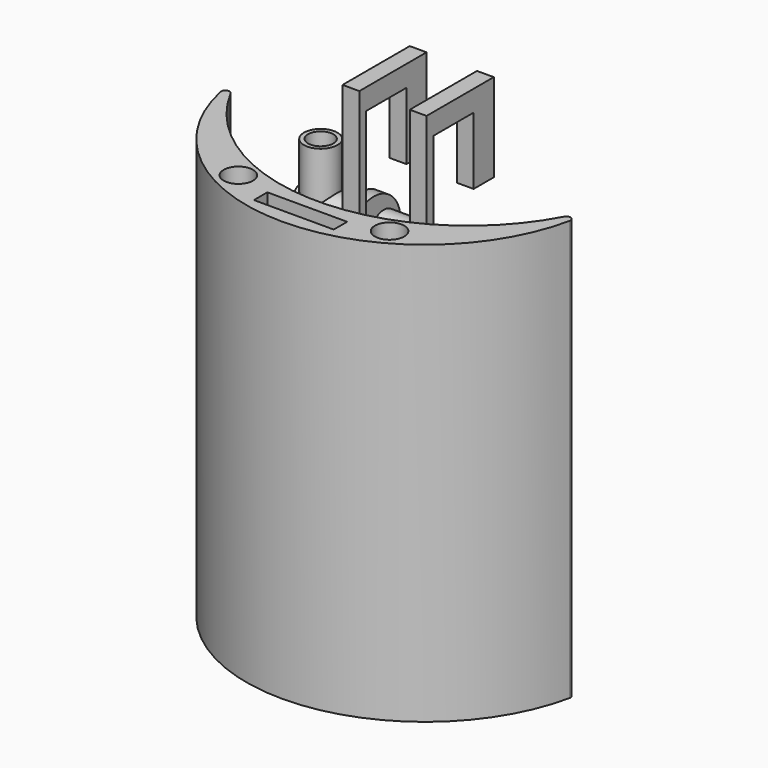
from build123d import *

# Parameters (mm, degrees)
BOX017_W                    = 30
BOX017_H                    = 5
BOX017_DEPTH                = 16
CYLINDER046_R               = 13
CYLINDER046_DEPTH           = 9
CYLINDER045_R               = 11
CYLINDER045_DEPTH           = 15
BOX016_W                    = 40
BOX016_H                    = 20
BOX016_DEPTH                = 14
BOX013_W                    = 4
BOX013_H                    = 20
BOX013_DEPTH                = 5
BOX012_W                    = 4
BOX012_H                    = 20
BOX012_DEPTH                = 5
BOX011_W                    = 4
BOX011_H                    = 6
BOX011_DEPTH                = 21
BOX014_W                    = 4
BOX014_H                    = 2
BOX014_DEPTH                = 43
CYLINDER044_R               = 3
CYLINDER044_DEPTH           = 10
CYLINDER043_R               = 3
CYLINDER043_DEPTH           = 26
CYLINDER042_R               = 3
CYLINDER042_DEPTH           = 16
CYLINDER041_R               = 4
CYLINDER041_DEPTH           = 14
CYLINDER038_R               = 3
CYLINDER038_DEPTH           = 18
CYLINDER037_R               = 4
CYLINDER037_DEPTH           = 18
CYLINDER036_R               = 4
CYLINDER036_DEPTH           = 10
BOX009_W                    = 34
BOX009_H                    = 5
BOX009_DEPTH                = 10
CYLINDER035_R               = 2.5
CYLINDER035_DEPTH           = 38
CYLINDER034_R               = 4
CYLINDER034_DEPTH           = 38
CYLINDER033_R               = 2.5
CYLINDER033_DEPTH           = 52
CYLINDER030_R               = 2.5
CYLINDER030_DEPTH           = 52
CYLINDER027_R               = 8
CYLINDER027_DEPTH           = 34
CYLINDER029_R               = 8
CYLINDER029_DEPTH           = 40
CYLINDER022_R               = 7
CYLINDER022_DEPTH           = 34
CYLINDER025_R               = 2
CYLINDER025_DEPTH           = 48
CYLINDER024_R               = 6
CYLINDER024_DEPTH           = 40
BOX007_W                    = 3
BOX007_H                    = 5
BOX007_DEPTH                = 14
BOX008_W                    = 3
BOX008_H                    = 5
BOX008_DEPTH                = 14
BOX005_W                    = 5
BOX005_H                    = 14
BOX005_DEPTH                = 51
BOX004_W                    = 18
BOX004_H                    = 8
BOX004_DEPTH                = 30
CYLINDER020_R               = 3.5
CYLINDER020_DEPTH           = 24
CYLINDER020_ROLL_ANGLE      = 45
CYLINDER020_PITCH_ANGLE     = 45
CYLINDER020_PLACEMENT_ANGLE = 90
BOX003_W                    = 41
BOX003_H                    = 10
BOX003_DEPTH                = 45
CYLINDER015_R               = 3.5
CYLINDER015_DEPTH           = 25
CYLINDER014_R               = 3.5
CYLINDER014_DEPTH           = 25
BOX002_W                    = 19
BOX002_H                    = 4
BOX002_DEPTH                = 100
CYLINDER004_R               = 45
CYLINDER004_DEPTH           = 100
CYLINDER005_R               = 42.5
CYLINDER005_DEPTH           = 100
FILLET005_R                 = 1
FILLET004_R                 = 1
BOX015_W                    = 4
BOX015_H                    = 6
BOX015_DEPTH                = 21
BOX010_W                    = 4
BOX010_H                    = 2
BOX010_DEPTH                = 43


with BuildPart() as cube017:
    # Box017 → Box017 (new body)
    with BuildSketch(Plane(origin=(-15, -2, -175), x_dir=(1, 0, 0), z_dir=(0, 0, 1))):
        with Locations((15, 2.5)):
            Rectangle(BOX017_W, BOX017_H)
    extrude(amount=BOX017_DEPTH)


with BuildPart() as cylindre042:
    # Cylinder046 → Cylinder046 (new body)
    with BuildSketch(Plane(origin=(0, 18, -171), x_dir=(1, 0, 0), z_dir=(0, 0, 1))):
        Circle(CYLINDER046_R)
    extrude(amount=CYLINDER046_DEPTH)


with BuildPart() as cylindre041:
    # Cylinder045 → Cylinder045 (new body)
    with BuildSketch(Plane(origin=(0, 18, -174), x_dir=(1, 0, 0), z_dir=(0, 0, 1))):
        Circle(CYLINDER045_R)
    extrude(amount=CYLINDER045_DEPTH)


with BuildPart() as cut033:
    # Box016 → Box016 (new body)
    with BuildSketch(Plane(origin=(-20, -2, -174), x_dir=(1, 0, 0), z_dir=(0, 0, 1))):
        with Locations((20, 10)):
            Rectangle(BOX016_W, BOX016_H)
    extrude(amount=BOX016_DEPTH)

    # Cut031: cut Cylindre041
    add(cylindre041.part, mode=Mode.SUBTRACT)

    # Cut032: cut Cylindre042
    add(cylindre042.part, mode=Mode.SUBTRACT)

    # Cut033: cut Cube017
    add(cube017.part, mode=Mode.SUBTRACT)


with BuildPart() as cube013:
    # Box013 → Box013 (new body)
    with BuildSketch(Plane(origin=(6, -12, -92), x_dir=(1, 0, 0), z_dir=(0, 0, 1))):
        with Locations((2, 10)):
            Rectangle(BOX013_W, BOX013_H)
    extrude(amount=BOX013_DEPTH)


with BuildPart() as cube012:
    # Box012 → Box012 (new body)
    with BuildSketch(Plane(origin=(-10, -12, -92), x_dir=(1, 0, 0), z_dir=(0, 0, 1))):
        with Locations((2, 10)):
            Rectangle(BOX012_W, BOX012_H)
    extrude(amount=BOX012_DEPTH)


with BuildPart() as fusion015:
    # Box011 → Box011 (new body)
    with BuildSketch(Plane(origin=(-10, 2, -108), x_dir=(1, 0, 0), z_dir=(0, 0, 1))):
        with Locations((2, 3)):
            Rectangle(BOX011_W, BOX011_H)
    extrude(amount=BOX011_DEPTH)

    # Fusion015: union Cube012
    add(cube012.part)


with BuildPart() as fusion016:
    # Box014 → Box014 (new body)
    with BuildSketch(Plane(origin=(-10, -12, -130), x_dir=(1, 0, 0), z_dir=(0, 0, 1))):
        with Locations((2, 1)):
            Rectangle(BOX014_W, BOX014_H)
    extrude(amount=BOX014_DEPTH)

    # Fusion016: union Fusion015
    add(fusion015.part)


with BuildPart() as cylindre040:
    # Cylinder044 → Cylinder044 (new body)
    with BuildSketch(Plane(origin=(-32, 9, -127), x_dir=(1, 0, 0), z_dir=(0, 0, 1))):
        Circle(CYLINDER044_R)
    extrude(amount=CYLINDER044_DEPTH)


with BuildPart() as cylindre039:
    # Cylinder043 → Cylinder043 (new body)
    with BuildSketch(Plane(origin=(-42, 9, -128), x_dir=(0, 0, -1), z_dir=(1, 0, 0))):
        Circle(CYLINDER043_R)
    extrude(amount=CYLINDER043_DEPTH)


with BuildPart() as cylindre038:
    # Cylinder042 → Cylinder042 (new body)
    with BuildSketch(Plane(origin=(-32, 9, -129), x_dir=(1, 0, 0), z_dir=(0, 0, 1))):
        Circle(CYLINDER042_R)
    extrude(amount=CYLINDER042_DEPTH)


with BuildPart() as cut029:
    # Cylinder041 → Cylinder041 (new body)
    with BuildSketch(Plane(origin=(-32, 9, -128), x_dir=(1, 0, 0), z_dir=(0, 0, 1))):
        Circle(CYLINDER041_R)
    extrude(amount=CYLINDER041_DEPTH)

    # Cut028: cut Cylindre038
    add(cylindre038.part, mode=Mode.SUBTRACT)

    # Cut029: cut Cylindre039
    add(cylindre039.part, mode=Mode.SUBTRACT)


with BuildPart() as cylindre034:
    # Cylinder038 → Cylinder038 (new body)
    with BuildSketch(Plane(origin=(-36, 9, -128), x_dir=(0, 0, -1), z_dir=(1, 0, 0))):
        Circle(CYLINDER038_R)
    extrude(amount=CYLINDER038_DEPTH)


with BuildPart() as fusion013:
    # Cylinder037 → Cylinder037 (new body)
    with BuildSketch(Plane(origin=(-36, 9, -128), x_dir=(0, 0, -1), z_dir=(1, 0, 0))):
        Circle(CYLINDER037_R)
    extrude(amount=CYLINDER037_DEPTH)

    # Cut026: cut Cylindre034
    add(cylindre034.part, mode=Mode.SUBTRACT)

    # Fusion013: union Cut029
    add(cut029.part)


with BuildPart() as cylindre032:
    # Cylinder036 → Cylinder036 (new body)
    with BuildSketch(Plane(origin=(0, 12, -133), x_dir=(1, 0, 0), z_dir=(0, 0, 1))):
        Circle(CYLINDER036_R)
    extrude(amount=CYLINDER036_DEPTH)


with BuildPart() as cube009:
    # Box009 → Box009 (new body)
    with BuildSketch(Plane(origin=(-17, 11, -133), x_dir=(1, 0, 0), z_dir=(0, 0, 1))):
        with Locations((17, 2.5)):
            Rectangle(BOX009_W, BOX009_H)
    extrude(amount=BOX009_DEPTH)


with BuildPart() as cylindre031:
    # Cylinder035 → Cylinder035 (new body)
    with BuildSketch(Plane(origin=(-20, 9, -128), x_dir=(0, 0, -1), z_dir=(1, 0, 0))):
        Circle(CYLINDER035_R)
    extrude(amount=CYLINDER035_DEPTH)


with BuildPart() as cut025:
    # Cylinder034 → Cylinder034 (new body)
    with BuildSketch(Plane(origin=(-20, 9, -128), x_dir=(0, 0, -1), z_dir=(1, 0, 0))):
        Circle(CYLINDER034_R)
    extrude(amount=CYLINDER034_DEPTH)

    # Cut023: cut Cylindre031
    add(cylindre031.part, mode=Mode.SUBTRACT)

    # Cut024: cut Cube009
    add(cube009.part, mode=Mode.SUBTRACT)

    # Cut025: cut Cylindre032
    add(cylindre032.part, mode=Mode.SUBTRACT)


with BuildPart() as cylindre029:
    # Cylinder033 → Cylinder033 (new body)
    with BuildSketch(Plane(origin=(-26, 9, -128), x_dir=(0, 0, -1), z_dir=(1, 0, 0))):
        Circle(CYLINDER033_R)
    extrude(amount=CYLINDER033_DEPTH)


with BuildPart() as cylindre026:
    # Cylinder030 → Cylinder030 (new body)
    with BuildSketch(Plane(origin=(-26, 9, -128), x_dir=(0, 0, -1), z_dir=(1, 0, 0))):
        Circle(CYLINDER030_R)
    extrude(amount=CYLINDER030_DEPTH)


with BuildPart() as cylindre023:
    # Cylinder027 → Cylinder027 (new body)
    with BuildSketch(Plane(origin=(-17, 6, -128), x_dir=(0, 0, -1), z_dir=(1, 0, 0))):
        Circle(CYLINDER027_R)
    extrude(amount=CYLINDER027_DEPTH)


with BuildPart() as fusion008:
    # Cylinder029 → Cylinder029 (new body)
    with BuildSketch(Plane(origin=(-20, 6, -128), x_dir=(0, 0, -1), z_dir=(1, 0, 0))):
        Circle(CYLINDER029_R)
    extrude(amount=CYLINDER029_DEPTH)

    # Cut020: cut Cylindre023
    add(cylindre023.part, mode=Mode.SUBTRACT)

    # Cut021: cut Cylindre026
    add(cylindre026.part, mode=Mode.SUBTRACT)

    # Cut022: cut Cylindre029
    add(cylindre029.part, mode=Mode.SUBTRACT)

    # Fusion008: union Cut025
    add(cut025.part)


with BuildPart() as cylindre018:
    # Cylinder022 → Cylinder022 (new body)
    with BuildSketch(Plane(origin=(-17, 6, -138), x_dir=(0, 0, -1), z_dir=(1, 0, 0))):
        Circle(CYLINDER022_R)
    extrude(amount=CYLINDER022_DEPTH)


with BuildPart() as cylindre021:
    # Cylinder025 → Cylinder025 (new body)
    with BuildSketch(Plane(origin=(-26, 6, -138), x_dir=(0, 0, -1), z_dir=(1, 0, 0))):
        Circle(CYLINDER025_R)
    extrude(amount=CYLINDER025_DEPTH)


with BuildPart() as fusion009:
    # Cylinder024 → Cylinder024 (new body)
    with BuildSketch(Plane(origin=(-20, 6, -138), x_dir=(0, 0, -1), z_dir=(1, 0, 0))):
        Circle(CYLINDER024_R)
    extrude(amount=CYLINDER024_DEPTH)

    # Cut017: cut Cylindre021
    add(cylindre021.part, mode=Mode.SUBTRACT)

    # Cut018: cut Cylindre018
    add(cylindre018.part, mode=Mode.SUBTRACT)


with BuildPart() as fusion009_1:
    # Cut018 placement: moved
    add(fusion009.part.moved(Location((0, -1, 0))))

    # Fusion009: union Fusion008
    add(fusion008.part)


with BuildPart() as fusion010:
    # Box007 → Box007 (new body)
    with BuildSketch(Plane(origin=(17, -2, -143), x_dir=(1, 0, 0), z_dir=(0, 0, 1))):
        with Locations((1.5, 2.5)):
            Rectangle(BOX007_W, BOX007_H)
    extrude(amount=BOX007_DEPTH)

    # Fusion010: union Fusion009
    add(fusion009_1.part)


with BuildPart() as fusion011:
    # Box008 → Box008 (new body)
    with BuildSketch(Plane(origin=(-20, -2, -143), x_dir=(1, 0, 0), z_dir=(0, 0, 1))):
        with Locations((1.5, 2.5)):
            Rectangle(BOX008_W, BOX008_H)
    extrude(amount=BOX008_DEPTH)

    # Fusion011: union Fusion010
    add(fusion010.part)


with BuildPart() as cube005:
    # Box005 → Box005 (new body)
    with BuildSketch(Plane(origin=(-2.5, -14, -174), x_dir=(1, 0, 0), z_dir=(0, 0, 1))):
        with Locations((2.5, 7)):
            Rectangle(BOX005_W, BOX005_H)
    extrude(amount=BOX005_DEPTH)


with BuildPart() as cube004:
    # Box004 → Box004 (new body)
    with BuildSketch(Plane(origin=(-9, -10, -158), x_dir=(1, 0, 0), z_dir=(0, 0, 1))):
        with Locations((9, 4)):
            Rectangle(BOX004_W, BOX004_H)
    extrude(amount=BOX004_DEPTH)


with BuildPart() as cylindre016:
    # Cylinder020 → Cylinder020 (new body)
    with BuildSketch(Plane.XY):
        Circle(CYLINDER020_R)
    extrude(amount=CYLINDER020_DEPTH)


with BuildPart() as cylindre016_1:
    # Cylinder020 roll: moved
    add(cylindre016.part.rotate(Axis((0, 0, 0), (1, 0, 0)), CYLINDER020_ROLL_ANGLE))


with BuildPart() as cylindre016_2:
    # Cylinder020 pitch: moved
    add(cylindre016_1.part.rotate(Axis((0, 0, 0), (0, 1, 0)), CYLINDER020_PITCH_ANGLE))


with BuildPart() as cylindre016_3:
    # Cylinder020 placement: moved
    add(cylindre016_2.part.moved(Location((-36, -18, -176))).rotate(Axis((-36, -18, -176), (0, 0, 1)), CYLINDER020_PLACEMENT_ANGLE))


with BuildPart() as fusion:
    # Box003 → Box003 (new body)
    with BuildSketch(Plane(origin=(-20.5, -12, -173), x_dir=(1, 0, 0), z_dir=(0, 0, 1))):
        with Locations((20.5, 5)):
            Rectangle(BOX003_W, BOX003_H)
    extrude(amount=BOX003_DEPTH)

    # Fusion: union Cylindre016
    add(cylindre016_3.part)


with BuildPart() as part_mirroring:
    # Part__Mirroring: instance of Cylindre016
    add(cylindre016_3.part.mirror(Plane(origin=(0, 0, 0), x_dir=(0, 1, 0), z_dir=(0, 0, 1))))


with BuildPart() as part_mirroring_1:
    # Part__Mirroring placement: moved
    add(part_mirroring.part.moved(Location((0, 0, -303))))


with BuildPart() as fusion001:
    # Fusion001 base: copy of Part__Mirroring
    add(part_mirroring_1.part)

    # Fusion001: union Fusion
    add(fusion.part)


with BuildPart() as fusion002:
    # Part__Mirroring002: instance of Part__Mirroring
    add(part_mirroring_1.part.mirror(Plane(origin=(0, 0, 0), x_dir=(0, -1, 0), z_dir=(1, 0, 0))))

    # Fusion002: union Fusion001
    add(fusion001.part)


with BuildPart() as fusion003:
    # Part__Mirroring001: instance of Cylindre016
    add(cylindre016_3.part.mirror(Plane(origin=(0, 0, 0), x_dir=(0, -1, 0), z_dir=(1, 0, 0))))

    # Fusion003: union Fusion002
    add(fusion002.part)


with BuildPart() as cylindre013:
    # Cylinder015 → Cylinder015 (new body)
    with BuildSketch(Plane(origin=(18, -33, -112.5), x_dir=(1, 0, 0), z_dir=(0, 0, 1))):
        Circle(CYLINDER015_R)
    extrude(amount=CYLINDER015_DEPTH)


with BuildPart() as cylindre012:
    # Cylinder014 → Cylinder014 (new body)
    with BuildSketch(Plane(origin=(-18, -33, -112.5), x_dir=(1, 0, 0), z_dir=(0, 0, 1))):
        Circle(CYLINDER014_R)
    extrude(amount=CYLINDER014_DEPTH)


with BuildPart() as cube002:
    # Box002 → Box002 (new body)
    with BuildSketch(Plane(origin=(-9.5, -39, 0), x_dir=(1, 0, 0), z_dir=(0, 0, 1))):
        with Locations((9.5, 2)):
            Rectangle(BOX002_W, BOX002_H)
    extrude(amount=BOX002_DEPTH)


with BuildPart() as cylindre004:
    # Cylinder004 → Cylinder004 (new body)
    with BuildSketch(Plane(origin=(0, 13, 0), x_dir=(1, 0, 0), z_dir=(0, 0, 1))):
        Circle(CYLINDER004_R)
    extrude(amount=CYLINDER004_DEPTH)


with BuildPart() as fusion017:
    # Cylinder005 → Cylinder005 (new body)
    with BuildSketch(Plane.XY):
        Circle(CYLINDER005_R)
    extrude(amount=CYLINDER005_DEPTH)

    # Cut005: cut Cylindre004
    add(cylindre004.part, mode=Mode.SUBTRACT)

    # Fillet005
    fillet005_edges = [fusion017.edges().sort_by_distance(p)[0] for p in [
        (-42.456904, -1.913462, 50),
    ]]
    fillet(fillet005_edges, radius=FILLET005_R)

    # Fillet004
    fillet004_edges = [fusion017.edges().sort_by_distance(p)[0] for p in [
        (42.456904, -1.913462, 50),
    ]]
    fillet(fillet004_edges, radius=FILLET004_R)

    # Cut004: cut Cube002
    add(cube002.part, mode=Mode.SUBTRACT)


with BuildPart() as fusion017_1:
    # Cut004 placement: moved
    add(fusion017.part.moved(Location((0, 0, -200))))

    # Cut012: cut Cylindre012
    add(cylindre012.part, mode=Mode.SUBTRACT)

    # Cut013: cut Cylindre013
    add(cylindre013.part, mode=Mode.SUBTRACT)

    # Fusion004: union Fusion003
    add(fusion003.part)

    # Cut014: cut Cube004
    add(cube004.part, mode=Mode.SUBTRACT)

    # Cut015: cut Cube005
    add(cube005.part, mode=Mode.SUBTRACT)

    # Fusion012: union Fusion011
    add(fusion011.part)

    # Fusion014: union Fusion013
    add(fusion013.part)

    # Cut030: cut Cylindre040
    add(cylindre040.part, mode=Mode.SUBTRACT)

    # Fusion017: union Fusion016
    add(fusion016.part)


with BuildPart() as fusion019:
    # Box015 → Box015 (new body)
    with BuildSketch(Plane(origin=(6, 2, -108), x_dir=(1, 0, 0), z_dir=(0, 0, 1))):
        with Locations((2, 3)):
            Rectangle(BOX015_W, BOX015_H)
    extrude(amount=BOX015_DEPTH)

    # Fusion018: union Fusion017
    add(fusion017_1.part)

    # Fusion019: union Cube013
    add(cube013.part)


with BuildPart() as obj1:
    # Box010 → Box010 (new body)
    with BuildSketch(Plane(origin=(6, -12, -130), x_dir=(1, 0, 0), z_dir=(0, 0, 1))):
        with Locations((2, 1)):
            Rectangle(BOX010_W, BOX010_H)
    extrude(amount=BOX010_DEPTH)

    # Fusion020: union Fusion019
    add(fusion019.part)

    # Fusion021: union Cut033
    add(cut033.part)


solid = obj1.part
